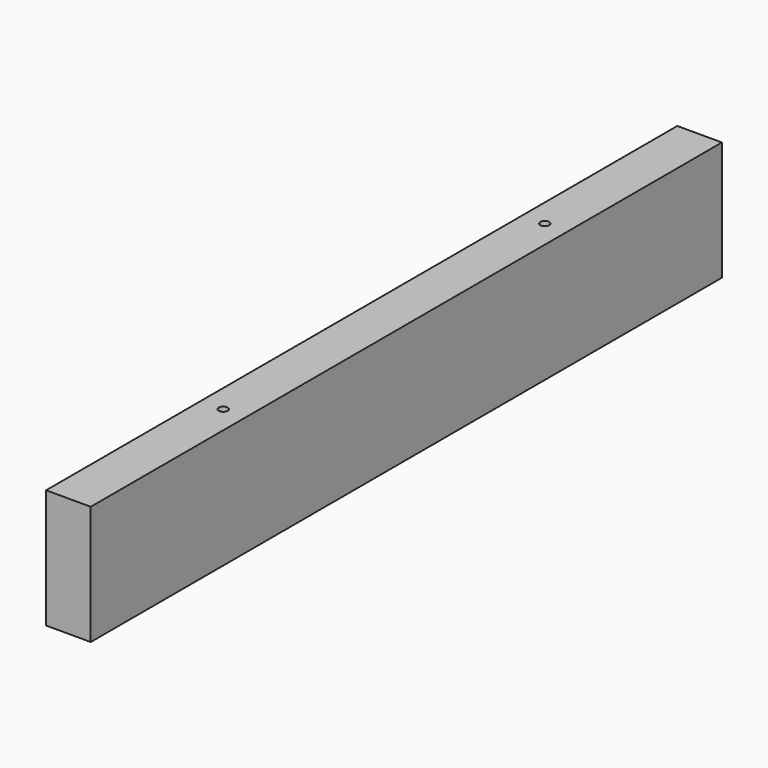
from build123d import *

# Parameters (mm, degrees)
F0_W     = 530
F0_H     = 80
F1_DEPTH = 30
F2_R     = 3
F3_DEPTH = 12
F4_R     = 3
F5_DEPTH = 12
F6_R     = 3
F7_DEPTH = 12
F8_R     = 3
F9_DEPTH = 12


with BuildPart() as f1:
    # F0 (on Right) → F1 (new body)
    with BuildSketch(Plane.YZ):
        with Locations((265, 40)):
            Rectangle(F0_W, F0_H)
    extrude(amount=F1_DEPTH)

    # F2 (on face) → F3 (cut)
    with BuildSketch(Plane(origin=(0, 0, 0), x_dir=(1, 0, 0), z_dir=(0, 0, -1))):
        with Locations((15, -130)):
            Circle(F2_R)
    extrude(amount=-F3_DEPTH, mode=Mode.SUBTRACT)

    # F4 (on face) → F5 (cut)
    with BuildSketch(Plane.XY.offset(80)):
        with Locations((15, 130)):
            Circle(F4_R)
    extrude(amount=-F5_DEPTH, mode=Mode.SUBTRACT)

    # F6 (on face) → F7 (cut)
    with BuildSketch(Plane(origin=(0, 0, 0), x_dir=(1, 0, 0), z_dir=(0, 0, -1))):
        with Locations((15, -400)):
            Circle(F6_R)
    extrude(amount=-F7_DEPTH, mode=Mode.SUBTRACT)

    # F8 (on face) → F9 (cut)
    with BuildSketch(Plane.XY.offset(80)):
        with Locations((15, 400)):
            Circle(F8_R)
    extrude(amount=-F9_DEPTH, mode=Mode.SUBTRACT)


solid = f1.part
